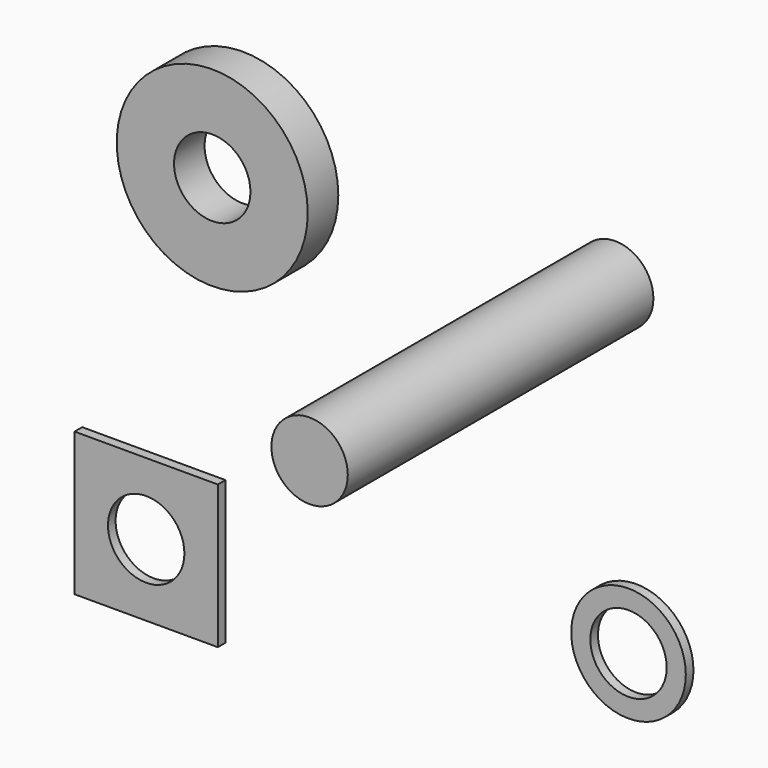
from build123d import *

# Parameters (mm, degrees)
F0_R     = 12.7
F0_R_2   = 5.08
F1_DEPTH = 5.08
F2_R     = 5.08
F3_DEPTH = 50.8
F4_W     = 19.05
F4_H     = 19.05
F4_R     = 5.08
F5_DEPTH = 1.27
F6_R     = 7.62
F6_R_2   = 5.08
F7_DEPTH = 1.27


with BuildPart() as f1:
    # F0 (on Front) → F1 (new body)
    with BuildSketch(Plane.XZ):
        with Locations((-24.761315, 21.511393)):
            Circle(F0_R)
        with Locations((-24.761315, 21.511393)):
            Circle(F0_R_2, mode=Mode.SUBTRACT)
    extrude(amount=F1_DEPTH)


with BuildPart() as f3:
    # F2 (on Front) → F3 (new body)
    with BuildSketch(Plane.XZ):
        with Locations((24.761314, 23.058975)):
            Circle(F2_R)
    extrude(amount=F3_DEPTH)


with BuildPart() as f5:
    # F4 (on Front) → F5 (new body)
    with BuildSketch(Plane.XZ):
        with Locations((-36.59295, -26.224149)):
            Rectangle(F4_W, F4_H)
        with Locations((-36.59295, -26.224149)):
            Circle(F4_R, mode=Mode.SUBTRACT)
    extrude(amount=F5_DEPTH)


with BuildPart() as f7:
    # F6 (on Front) → F7 (new body)
    with BuildSketch(Plane.XZ):
        with Locations((27.546966, -18.725745)):
            Circle(F6_R)
        with Locations((27.546966, -18.725745)):
            Circle(F6_R_2, mode=Mode.SUBTRACT)
    extrude(amount=F7_DEPTH)


solid = Compound([f1.part, f3.part, f5.part, f7.part])
